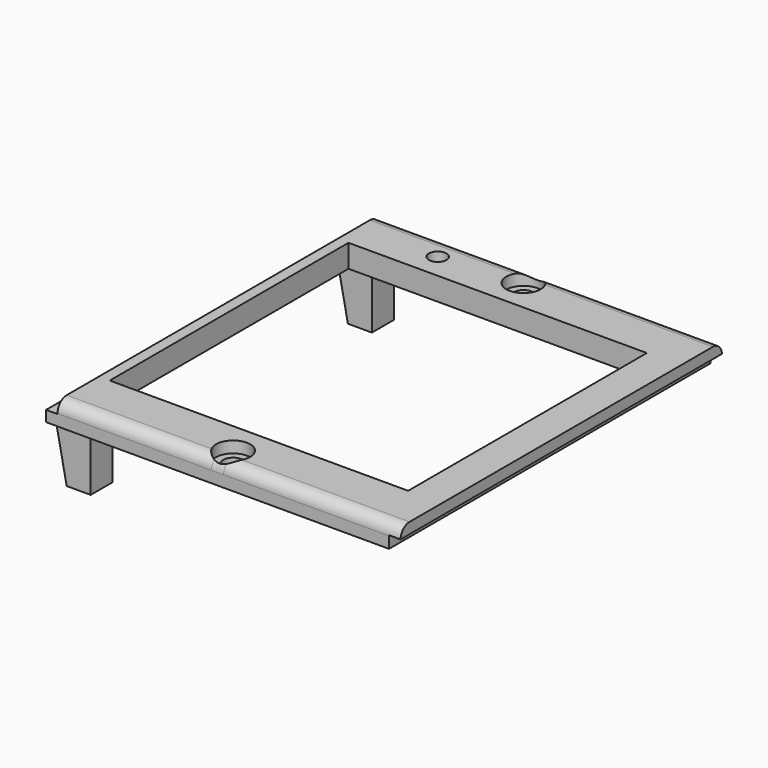
from build123d import *

# Parameters (mm, degrees)
SKETCH077_W          = 62
SKETCH077_H          = 70.3
SKETCH077_R          = 1.75
SKETCH077_R_2        = 1.55
SKETCH077_W_2        = 52.2
SKETCH077_H_2        = 52.2
PAD021_DEPTH         = 4
FILLET009_R          = 2
SKETCH078_W          = 2
SKETCH078_H          = 2.1
POCKET050_DEPTH      = 35.151
POCKET050_DEPTH_BACK = 35.151
SKETCH079_R          = 3
POCKET028_DEPTH      = 2.001
SKETCH081_W          = 4.202
SKETCH081_H          = 4.8
PAD023_DEPTH         = 10
CHAMFER003_SIZE2     = 9.99
CHAMFER003_SIZE      = 1.99


with BuildPart() as part:
    # Sketch077 → Pad021 (new body)
    with BuildSketch(Plane.XY):
        with Locations((1, 0)):
            Rectangle(SKETCH077_W, SKETCH077_H)
        with Locations((0, 31.75)):
            Circle(SKETCH077_R, mode=Mode.SUBTRACT)
        with Locations((0, -31.75)):
            Circle(SKETCH077_R, mode=Mode.SUBTRACT)
        with Locations((-14, 30.5)):
            Circle(SKETCH077_R_2, mode=Mode.SUBTRACT)
        Rectangle(SKETCH077_W_2, SKETCH077_H_2, mode=Mode.SUBTRACT)
    extrude(amount=PAD021_DEPTH)

    # Fillet009
    fillet009_edges = [part.edges().sort_by_distance(p)[0] for p in [
        (1, 35.15, 4),
        (1, -35.15, 4),
    ]]
    fillet(fillet009_edges, radius=FILLET009_R)

    # Sketch078 → Pocket050 (cut, two sides)
    with BuildSketch(Plane.XZ) as pocket050_sk:
        with Locations((-29, 2.95)):
            Rectangle(SKETCH078_W, SKETCH078_H)
        with Locations((31, 1.05)):
            Rectangle(SKETCH078_W, SKETCH078_H)
    extrude(amount=-POCKET050_DEPTH, mode=Mode.SUBTRACT)
    extrude(pocket050_sk.sketch, amount=POCKET050_DEPTH_BACK, mode=Mode.SUBTRACT)

    # Sketch079 → Pocket028 (cut, through all)
    with BuildSketch(Plane.XY.offset(2)):
        with Locations((0, -31.75)):
            Circle(SKETCH079_R)
        with Locations((0, 31.75)):
            Circle(SKETCH079_R)
    extrude(amount=POCKET028_DEPTH, mode=Mode.SUBTRACT)

    # Sketch081 → Pad023 (join)
    with BuildSketch(Plane.XY):
        with Locations((-25.899, 30.75)):
            Rectangle(SKETCH081_W, SKETCH081_H)
        with Locations((-25.899, -30.75)):
            Rectangle(SKETCH081_W, SKETCH081_H)
    extrude(amount=-PAD023_DEPTH)

    # Chamfer003
    chamfer003_edges = [part.edges().sort_by_distance(p)[0] for p in [
        (-28, 30.75, 0),
        (-28, -30.75, 0),
    ]]
    chamfer003_side = part.faces().sort_by_distance((-29.075766, 0, 0))[0]
    chamfer(chamfer003_edges, length=CHAMFER003_SIZE, length2=CHAMFER003_SIZE2, reference=chamfer003_side)


with BuildPart() as part_1:
    # Body037 placement: moved
    add(part.part.moved(Location((0, 0, 46))))


solid = part_1.part
